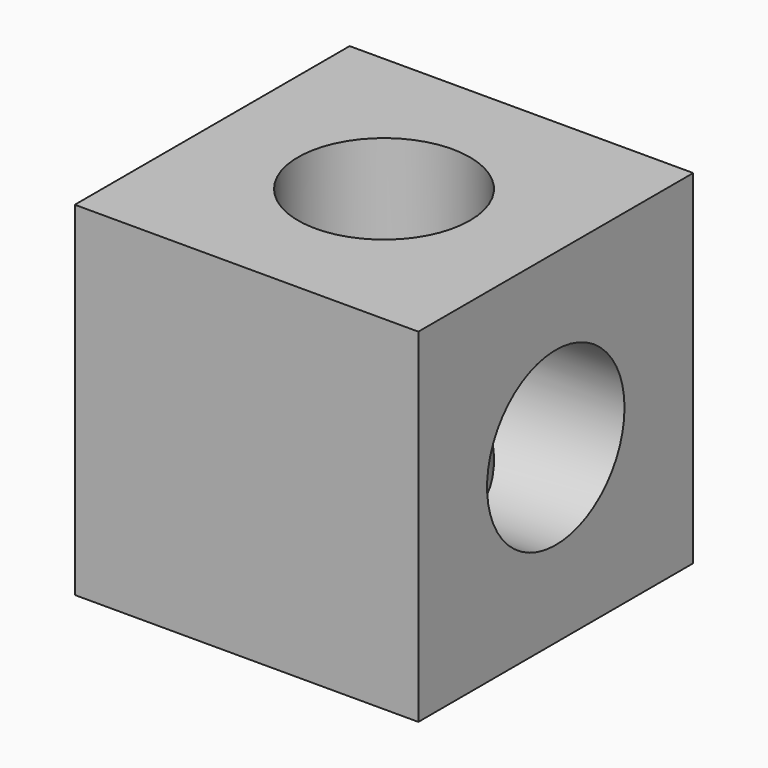
from build123d import *

# Parameters (mm, degrees)
F0_W     = 25.4
F0_H     = 25.4
F0_R     = 6.35
F1_DEPTH = 25.4
F2_R     = 6.35
F3_DEPTH = 25.401


with BuildPart() as f1:
    # F0 (on Right) → F1 (new body)
    with BuildSketch(Plane.YZ):
        with Locations((-12.7, 12.7)):
            Rectangle(F0_W, F0_H)
        with Locations((-12.7, 12.7)):
            Circle(F0_R, mode=Mode.SUBTRACT)
    extrude(amount=F1_DEPTH)

    # F2 (on face) → F3 (cut, through all)
    with BuildSketch(Plane.XY.offset(25.4)):
        with Locations((12.7, -12.7)):
            Circle(F2_R)
    extrude(amount=-F3_DEPTH, mode=Mode.SUBTRACT)


solid = f1.part
